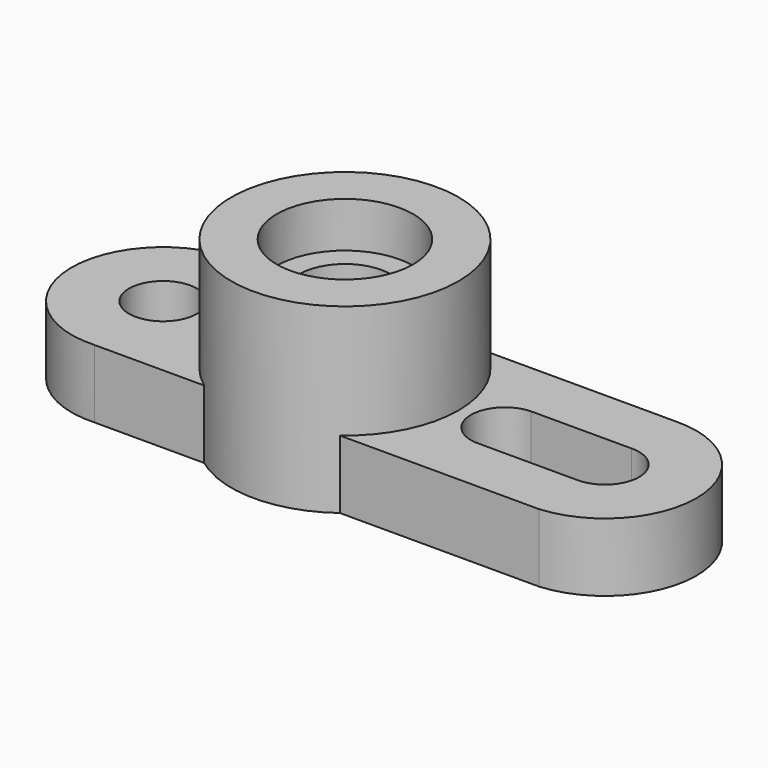
from build123d import *

# Parameters (mm, degrees)
F1_R     = 31.75
F1_R_2   = 19.05
F4_DEPTH = 50.8
F2_R     = 19.05
F2_R_2   = 12.7
F5_DEPTH = 38.1
F6_DEPTH = 19.05
F3_R     = 9.525
F7_DEPTH = 19.05


with BuildPart() as f4:
    # F1 (on Top) → F4 (new body)
    with BuildSketch(Plane.XY):
        Circle(F1_R)
        Circle(F1_R_2, mode=Mode.SUBTRACT)
    extrude(amount=F4_DEPTH)

    # F2 (on face) → F5 (join)
    with BuildSketch(Plane.XY):
        Circle(F2_R)
        Circle(F2_R_2, mode=Mode.SUBTRACT)
    extrude(amount=F5_DEPTH)

    # F0 (on Top) → F6 (join)
    with BuildSketch(Plane.XY):
        with BuildLine():
            ThreePointArc((18.9071120655, 25.5065405992), (28.3580967986, 14.2786850221), (31.75, 0))
            ThreePointArc((31.75, 0), (28.3738258286, -14.2474035476), (18.9633223402, -25.4647777493))
            Line((18.9633223402, -25.4647777493), (74.598514582, -25.4647777493))
            ThreePointArc((74.598514582, -25.4647777493), (98.1416650574, 1.2092358238), (72.1527459753, 25.5065405992))
            Line((72.1527459753, 25.5065405992), (18.9071120655, 25.5065405992))
        make_face()
        with BuildLine():
            ThreePointArc((45.1813528665, -9.5272837666), (35.1847662251, -0.3951371067), (44.4197335774, 9.5065407864))
            Line((44.4197335774, 9.5065407864), (72.3597335774, 9.5065407864))
            ThreePointArc((72.3597335774, 9.5065407864), (82.1679704992, 0.1258636982), (72.6398616433, -9.5392154931))
            Line((72.6398616433, -9.5392154931), (45.1813528665, -9.5272837666))
        make_face(mode=Mode.SUBTRACT)
    extrude(amount=F6_DEPTH)

    # F3 (on face) → F7 (join)
    with BuildSketch(Plane.XY):
        with BuildLine():
            Line((-49.5730978943, -25.4974987052), (-18.9193038925, -25.4974987052))
            ThreePointArc((-18.9193038925, -25.4974987052), (-31.7478647233, -0.3682193799), (-19.5055872667, 25.0518375649))
            Line((-19.5055872667, 25.0518375649), (-50.4100229924, 25.5240209789))
            ThreePointArc((-50.4100229924, 25.5240209789), (-76.3235664091, -0.41867262), (-49.5730978943, -25.4974987052))
        make_face()
        with Locations((-50.8, 0)):
            Circle(F3_R, mode=Mode.SUBTRACT)
    extrude(amount=F7_DEPTH)


solid = f4.part
